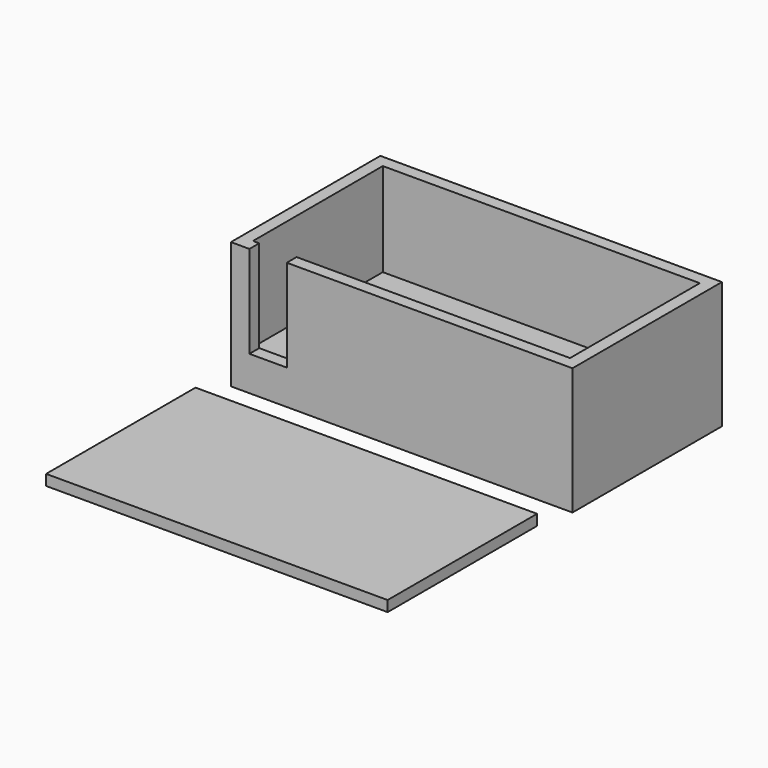
from build123d import *

# Parameters (mm, degrees)
F0_W      = 64
F0_H      = 35
F1_DEPTH  = 19.8
F2_T      = -2.3
F4_W      = 7
F4_H      = 2.3
F5_DEPTH  = 17.3
F3_W      = 64
F3_H      = 35
F6_DEPTH  = 4
F7_W      = 64
F7_H      = 35
F9_DEPTH  = 2
F8_W      = 59.3
F8_H      = 30.3
F8_W_2    = 55.3
F8_H_2    = 26.3
F10_DEPTH = 1


with BuildPart() as f1:
    # F0 (on Top) → F1 (new body)
    with BuildSketch(Plane.XY):
        with Locations((-2.0125784278, -6.8018344045)):
            Rectangle(F0_W, F0_H)
    extrude(amount=F1_DEPTH)

    # F2
    f2_openings = [f1.faces().sort_by_distance(p)[0] for p in [
        (-2.012578, -6.801834, 19.8),
    ]]
    offset(amount=F2_T, openings=f2_openings)

    # F4 (on face) → F5 (cut)
    with BuildSketch(Plane.XY.offset(19.8)):
        with Locations((-27.0480081588, -23.1518344045)):
            Rectangle(F4_W, F4_H)
    extrude(amount=-F5_DEPTH, mode=Mode.SUBTRACT)

    # F3 (on face) → F6 (join)
    with BuildSketch(Plane(origin=(0, 0, 0), x_dir=(1, 0, 0), z_dir=(0, 0, -1))):
        with Locations((-2.0125784278, 6.8018344045)):
            Rectangle(F3_W, F3_H)
        Polygon((-26.9175521439, 18.3273626809), (-22.3223236765, 9.1999870238), (-17.6979807731, 18.3273626809), (-12.6320689252, 18.3273626809), (-19.9883163979, 4.7842975778), (-19.9883163979, -3.8432802629), (-24.6563309551, -3.8432802629), (-24.6563309551, 4.6338729923), (-32.0125784278, 18.3273626809), align=None, mode=Mode.SUBTRACT)
        with BuildLine():
            Line((-2.6409650028, 4.6629874282), (-5.1399540849, 4.6629874282))
            Line((-5.1399540849, 4.6629874282), (-5.1399540849, -3.8432802629))
            Line((-5.1399540849, -3.8432802629), (-9.841935484, -3.8432802629))
            Line((-9.841935484, -3.8432802629), (-9.841935484, 18.3273626809))
            Line((-9.841935484, 18.3273626809), (-3.3833831185, 18.3273626809))
            add(Edge.make_bspline(
                [(-3.3833831185, 18.3273626809), (1.1390592592, 18.3273626809), (3.3056585314, 16.6823970521)],
                knots=[0, 0, 0, 1, 1, 1], degree=2))
            add(Edge.make_bspline(
                [(3.3056585314, 16.6823970521), (5.4722578035, 15.0374314234), (5.4722578035, 11.684418888)],
                knots=[0, 0, 0, 1, 1, 1], degree=2))
            add(Edge.make_bspline(
                [(5.4722578035, 11.684418888), (5.4722578035, 9.7288992762), (4.3974498779, 8.205243797)],
                knots=[0, 0, 0, 1, 1, 1], degree=2))
            add(Edge.make_bspline(
                [(4.3974498779, 8.205243797), (3.3226419523, 6.6815883178), (1.3477127166, 5.8178600526)],
                knots=[0, 0, 0, 1, 1, 1], degree=2))
            add(Edge.make_bspline(
                [(1.3477127166, 5.8178600526), (6.3553956927, -1.6596975698), (7.8693463599, -3.8432802629)],
                knots=[0, 0, 0, 1, 1, 1], degree=2))
            Line((7.8693463599, -3.8432802629), (2.6530099264, -3.8432802629))
            Line((2.6530099264, -3.8432802629), (-2.6409650028, 4.6629874282))
        make_face(mode=Mode.SUBTRACT)
        with BuildLine():
            add(Edge.make_bspline(
                [(23.8750075002, 16.5902013384), (25.9736730886, 14.8530399959), (25.9736730886, 11.4126841528)],
                knots=[0, 0, 0, 1, 1, 1], degree=2))
            add(Edge.make_bspline(
                [(25.9736730886, 11.4126841528), (25.9736730886, 7.8316085362), (23.7367139297, 5.9367439992)],
                knots=[0, 0, 0, 1, 1, 1], degree=2))
            add(Edge.make_bspline(
                [(23.7367139297, 5.9367439992), (21.4997547708, 4.0418794622), (17.3752096838, 4.0418794622)],
                knots=[0, 0, 0, 1, 1, 1], degree=2))
            Line((17.3752096838, 4.0418794622), (15.3614612002, 4.0418794622))
            Line((15.3614612002, 4.0418794622), (15.3614612002, -3.8432802629))
            Line((15.3614612002, -3.8432802629), (10.6594798011, -3.8432802629))
            Line((10.6594798011, -3.8432802629), (10.6594798011, 18.3273626809))
            Line((10.6594798011, 18.3273626809), (17.7391401327, 18.3273626809))
            add(Edge.make_bspline(
                [(17.7391401327, 18.3273626809), (21.7763419119, 18.3273626809), (23.8750075002, 16.5902013384)],
                knots=[0, 0, 0, 1, 1, 1], degree=2))
        make_face(mode=Mode.SUBTRACT)
    extrude(amount=F6_DEPTH)


with BuildPart() as f9:
    # F7 (on Top) → F9 (new body)
    with BuildSketch(Plane.XY):
        with Locations((1.3861044943, -54.3424897641)):
            Rectangle(F7_W, F7_H)
    extrude(amount=F9_DEPTH)

    # F8 (on face) → F10 (join)
    with BuildSketch(Plane.XY):
        with Locations((1.3861044943, -54.3424897641)):
            Rectangle(F8_W, F8_H)
        with Locations((1.3861044943, -54.3424897641)):
            Rectangle(F8_W_2, F8_H_2, mode=Mode.SUBTRACT)
    extrude(amount=-F10_DEPTH)


solid = Compound([f1.part, f9.part])
